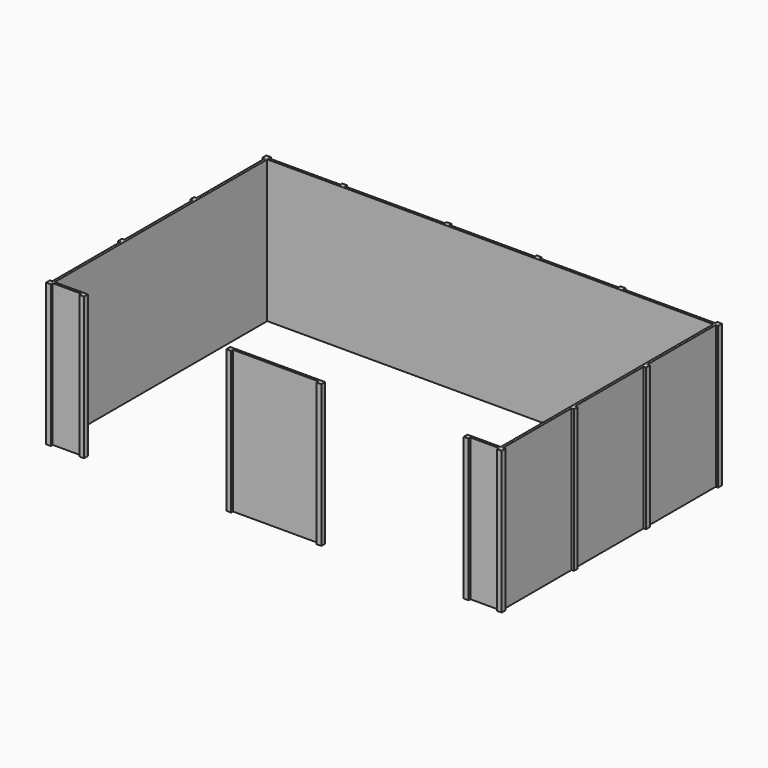
from build123d import *

# Parameters (mm, degrees)
F0_W     = 914.4
F0_H     = 25.4
F0_W_2   = 1066.8
F0_W_3   = 25.4
F0_H_2   = 914.4
F0_W_4   = 304.8
F0_W_5   = 844.93306
F0_W_6   = 762
F0_W_7   = 983.86694
F0_W_8   = 50.8
F0_H_3   = 50.8
F1_DEPTH = 1524


with BuildPart() as f1:
    # F0 (on Top) → F1 (new body)
    with BuildSketch(Plane.XY):
        with Locations((2377.066482, -12.7)):
            Rectangle(F0_W, F0_H)
        with Locations((1335.666482, 2857.5)):
            Rectangle(F0_W_2, F0_H)
        with Locations((4777.366482, 2387.6)):
            Rectangle(F0_W_3, F0_H_2)
        with Locations((4777.366482, 1422.4)):
            Rectangle(F0_W_3, F0_H_2)
        with Locations((4612.266482, -12.7)):
            Rectangle(F0_W_4, F0_H)
        with Locations((3307.533012, 2857.5)):
            Rectangle(F0_W_5, F0_H)
        with Locations((370.466482, 2857.5)):
            Rectangle(F0_W_6, F0_H)
        with Locations((4272.733012, 2857.5)):
            Rectangle(F0_W_7, F0_H)
        with Locations((141.866482, -12.7)):
            Rectangle(F0_W_4, F0_H)
        with Locations((2377.066482, 2857.5)):
            Rectangle(F0_W, F0_H)
        with Locations((4777.366482, 457.2)):
            Rectangle(F0_W_3, F0_H_2)
        with Locations((-23.233518, 2387.6)):
            Rectangle(F0_W_3, F0_H_2)
        with Locations((-23.233518, 457.2)):
            Rectangle(F0_W_3, F0_H_2)
        with Locations((-23.233518, 1422.4)):
            Rectangle(F0_W_3, F0_H_2)
        with Locations((776.866482, 2857.5)):
            Rectangle(F0_W_8, F0_H)
        with Locations((776.866482, 2882.9)):
            Rectangle(F0_W_8, F0_H)
        with Locations((2859.666482, 2857.5)):
            Rectangle(F0_W_8, F0_H)
        Polygon((4790.066482, 1930.4), (4764.666482, 1930.4), (4764.666482, 1879.6), (4790.066482, 1879.6), (4815.466482, 1879.6), (4815.466482, 1930.4), align=None)
        with Locations((2859.666482, 2882.9)):
            Rectangle(F0_W_8, F0_H)
        with Locations((1894.466482, 2857.5)):
            Rectangle(F0_W_8, F0_H)
        Polygon((4790.066482, 965.2), (4764.666482, 965.2), (4764.666482, 914.4), (4790.066482, 914.4), (4815.466482, 914.4), (4815.466482, 965.2), align=None)
        with Locations((-23.233518, 939.8)):
            Rectangle(F0_W_3, F0_H_3)
        with Locations((-48.633518, 939.8)):
            Rectangle(F0_W_3, F0_H_3)
        with Locations((1894.466482, 2882.9)):
            Rectangle(F0_W_8, F0_H)
        Polygon((4459.866482, -25.4), (4459.866482, 0), (4409.066482, 0), (4409.066482, -50.8), (4459.866482, -50.8), align=None)
        Polygon((3729.999542, 2870.2), (3729.999542, 2844.8), (3780.799542, 2844.8), (3780.799542, 2870.2), (3780.799542, 2895.6), (3729.999542, 2895.6), align=None)
        with Locations((-48.633518, 1905)):
            Rectangle(F0_W_3, F0_H_3)
        with Locations((-23.233518, 1905)):
            Rectangle(F0_W_3, F0_H_3)
        Polygon((4764.666482, 2870.2), (4764.666482, 2844.8), (4790.066482, 2844.8), (4815.466482, 2844.8), (4815.466482, 2895.6), (4764.666482, 2895.6), align=None)
        Polygon((2834.266482, 0), (2834.266482, -25.4), (2834.266482, -50.8), (2885.066482, -50.8), (2885.066482, 0), align=None)
        Polygon((4790.066482, 0), (4764.666482, 0), (4764.666482, -25.4), (4764.666482, -50.8), (4815.466482, -50.8), (4815.466482, 0), align=None)
        Polygon((1869.066482, 0), (1869.066482, -50.8), (1919.866482, -50.8), (1919.866482, -25.4), (1919.866482, 0), align=None)
        Polygon((294.266482, 0), (294.266482, -25.4), (294.266482, -50.8), (345.066482, -50.8), (345.066482, 0), align=None)
        Polygon((-61.333518, 0), (-61.333518, -50.8), (-10.533518, -50.8), (-10.533518, -25.4), (-10.533518, 0), (-35.933518, 0), align=None)
        Polygon((-61.333518, 2844.8), (-35.933518, 2844.8), (-10.533518, 2844.8), (-10.533518, 2870.2), (-10.533518, 2895.6), (-61.333518, 2895.6), align=None)
    extrude(amount=F1_DEPTH)


solid = f1.part
